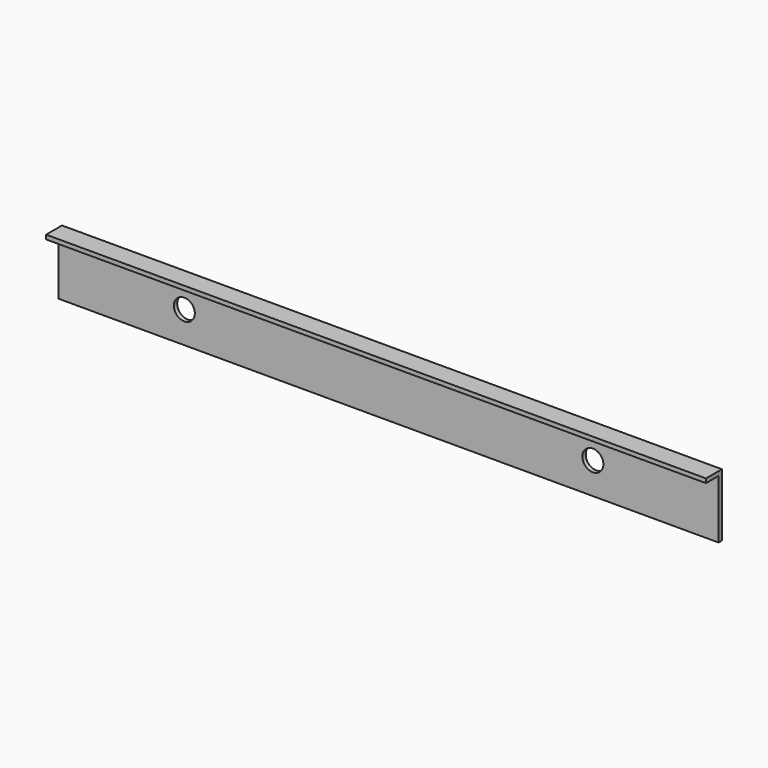
from build123d import *

# Parameters (mm, degrees)
F0_W     = 800.1
F0_H     = 76.2
F0_R     = 12.7
F1_DEPTH = 5.08
F2_W     = 800.1
F2_H     = 5.08
F3_DEPTH = 19.05


with BuildPart() as f1:
    # F0 (on Front) → F1 (new body)
    with BuildSketch(Plane.XZ):
        with Locations((7.7429, -39.377729)):
            Rectangle(F0_W, F0_H)
        with Locations((255.3929, -39.377729)):
            Circle(F0_R, mode=Mode.SUBTRACT)
        with Locations((-239.9071, -39.377729)):
            Circle(F0_R, mode=Mode.SUBTRACT)
    extrude(amount=F1_DEPTH)

    # F2 (on face) → F3 (join)
    with BuildSketch(Plane.XZ.offset(5.08)):
        with Locations((7.7429, -3.817729)):
            Rectangle(F2_W, F2_H)
    extrude(amount=F3_DEPTH)


solid = f1.part
